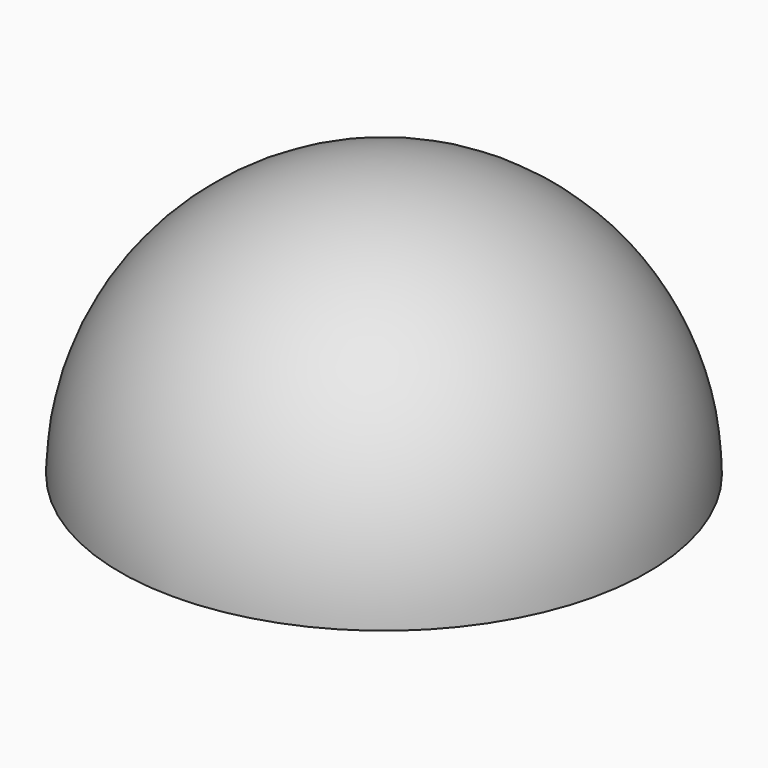
from build123d import *

# Parameters (mm, degrees)
F1_ANGLE = -180


with BuildPart() as f1:
    # F0 (on Top) → F1 (revolve)
    with BuildSketch(Plane.XY):
        with BuildLine():
            Line((0, -6.35), (0, 0))
            Line((0, 0), (0, 6.35))
            ThreePointArc((0, 6.35), (-6.35, 0), (0, -6.35))
        make_face()
    revolve(axis=Axis((0, 0, 0), (0, -1, 0)), revolution_arc=F1_ANGLE)


solid = f1.part
